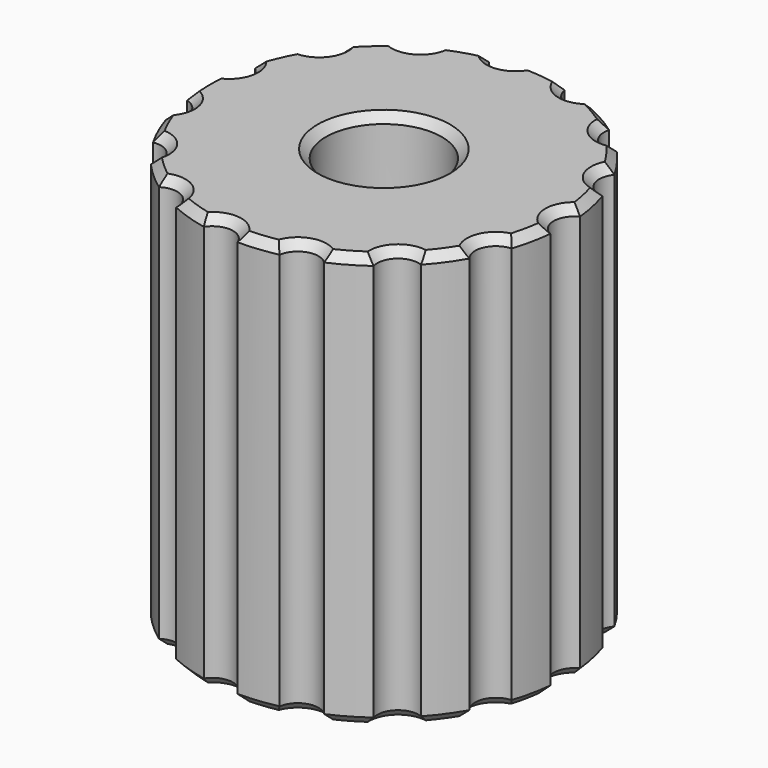
from build123d import *

# Parameters (mm, degrees)
SKETCH011_R          = 11
SKETCH011_R_2        = 3.5
PAD006_DEPTH         = 12.5
POCKET003_DEPTH      = 2.5
SKETCH013_R          = 1.25
POCKET004_DEPTH      = 92.325808
POCKET004_DEPTH_BACK = 92.325808
POLARPATTERN_COUNT   = 15
CHAMFER_SIZE         = 0.5


with BuildPart() as part:
    # Sketch011 → Pad006 (new body, symmetric)
    with BuildSketch(Plane.XY):
        Circle(SKETCH011_R)
        Circle(SKETCH011_R_2, mode=Mode.SUBTRACT)
    extrude(amount=PAD006_DEPTH, both=True)

    # Sketch012 → Pocket003 (cut, symmetric)
    with BuildSketch(Plane.XY):
        Polygon((0, 5.888973), (-5.1, 2.944486), (-5.1, -2.944486), (0, -5.888973), (5.1, -2.944486), (5.1, 2.944486), align=None)
    extrude(amount=POCKET003_DEPTH, both=True, mode=Mode.SUBTRACT)

    # Sketch013 → Pocket004 (cut, two sides)
    with BuildSketch(Plane.XY) as pocket004_sk:
        with Locations((11.5, 0)):
            Circle(SKETCH013_R)
    pocket004 = extrude(amount=-POCKET004_DEPTH, mode=Mode.SUBTRACT) + extrude(pocket004_sk.sketch, amount=POCKET004_DEPTH_BACK, mode=Mode.SUBTRACT)

    # PolarPattern: Pocket004 ×15 about axis
    polarpattern_axis = Axis((0, 0, 0), (0, 0, 1))
    for i in range(1, POLARPATTERN_COUNT):
        add(pocket004.rotate(polarpattern_axis, i * 360 / POLARPATTERN_COUNT), mode=Mode.SUBTRACT)

    # Chamfer
    chamfer_edges = [part.edges().sort_by_distance(p)[0] for p in [
        (10.25, 0, 12.5),
        (10.759624, -2.287029, 12.5),
        (9.363841, -4.169051, 12.5),
        (8.899187, -6.465638, 12.5),
        (6.858589, -7.617234, 12.5),
        (5.5, -9.526279, 12.5),
        (3.167424, -9.748329, 12.5),
        (1.149813, -10.939741, 12.5),
        (-1.071417, -10.193849, 12.5),
        (-3.399187, -10.461622, 12.5),
        (-5.125, -8.87676, 12.5),
        (-7.360437, -8.174593, 12.5),
        (-8.292424, -6.024799, 12.5),
        (-10.049, -4.474103, 12.5),
        (-10.026013, -2.131095, 12.5),
        (-11, 0, 12.5),
        (-10.026013, 2.131095, 12.5),
        (-10.049, 4.474103, 12.5),
        (-8.292424, 6.024799, 12.5),
        (-7.360437, 8.174593, 12.5),
        (-5.125, 8.87676, 12.5),
        (-3.399187, 10.461622, 12.5),
        (-1.071417, 10.193849, 12.5),
        (1.149813, 10.939741, 12.5),
        (3.167424, 9.748329, 12.5),
        (5.5, 9.526279, 12.5),
        (6.858589, 7.617234, 12.5),
        (8.899187, 6.465638, 12.5),
        (9.363841, 4.169051, 12.5),
        (10.759624, 2.287029, 12.5),
        (-3.5, 0, 12.5),
        (10.25, 0, -12.5),
        (10.759624, -2.287029, -12.5),
        (9.363841, -4.169051, -12.5),
        (8.899187, -6.465638, -12.5),
        (6.858589, -7.617234, -12.5),
        (5.5, -9.526279, -12.5),
        (3.167424, -9.748329, -12.5),
        (1.149813, -10.939741, -12.5),
        (-1.071417, -10.193849, -12.5),
        (-3.399187, -10.461622, -12.5),
        (-5.125, -8.87676, -12.5),
        (-7.360437, -8.174593, -12.5),
        (-8.292424, -6.024799, -12.5),
        (-10.049, -4.474103, -12.5),
        (-10.026013, -2.131095, -12.5),
        (-11, 0, -12.5),
        (-10.026013, 2.131095, -12.5),
        (-10.049, 4.474103, -12.5),
        (-8.292424, 6.024799, -12.5),
        (-7.360437, 8.174593, -12.5),
        (-5.125, 8.87676, -12.5),
        (-3.399187, 10.461622, -12.5),
        (-1.071417, 10.193849, -12.5),
        (1.149813, 10.939741, -12.5),
        (3.167424, 9.748329, -12.5),
        (5.5, 9.526279, -12.5),
        (6.858589, 7.617234, -12.5),
        (8.899187, 6.465638, -12.5),
        (9.363841, 4.169051, -12.5),
        (10.759624, 2.287029, -12.5),
        (-3.5, 0, -12.5),
    ]]
    chamfer(chamfer_edges, length=CHAMFER_SIZE)


with BuildPart() as part_1:
    # Body002 placement: moved
    add(part.part.moved(Location((0, 0, -53))))


solid = part_1.part
